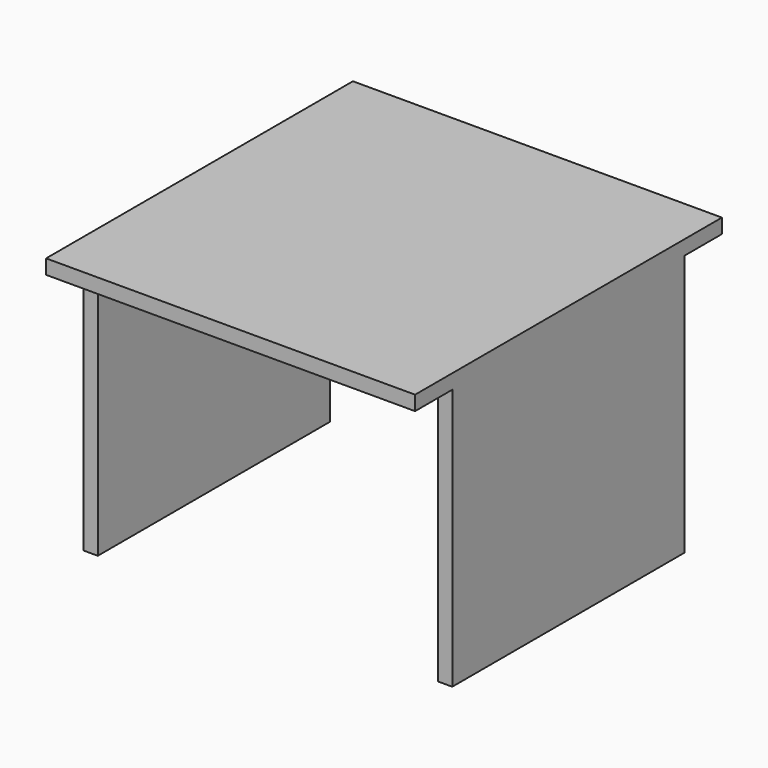
from build123d import *

# Parameters (mm, degrees)
SKETCH006_W  = 10
SKETCH006_H  = 9.5
PAD002_DEPTH = 0.5
SKETCH007_W  = 12.7
SKETCH007_H  = 13.2
PAD003_DEPTH = 0.5
SKETCH008_W  = 10
SKETCH008_H  = 9.5
PAD004_DEPTH = 0.5


with BuildPart() as part:
    # Sketch006 → Pad002 (new body)
    with BuildSketch(Plane.YZ.offset(6.35)):
        with Locations((0, 4.75)):
            Rectangle(SKETCH006_W, SKETCH006_H)
    extrude(amount=-PAD002_DEPTH)

    # Sketch007 → Pad003 (join)
    with BuildSketch(Plane.XY.offset(9.5)):
        Rectangle(SKETCH007_W, SKETCH007_H)
    extrude(amount=-PAD003_DEPTH)

    # Sketch008 → Pad004 (join)
    with BuildSketch(Plane.YZ.offset(-6.35)):
        with Locations((0, 4.75)):
            Rectangle(SKETCH008_W, SKETCH008_H)
    extrude(amount=PAD004_DEPTH)


solid = part.part
